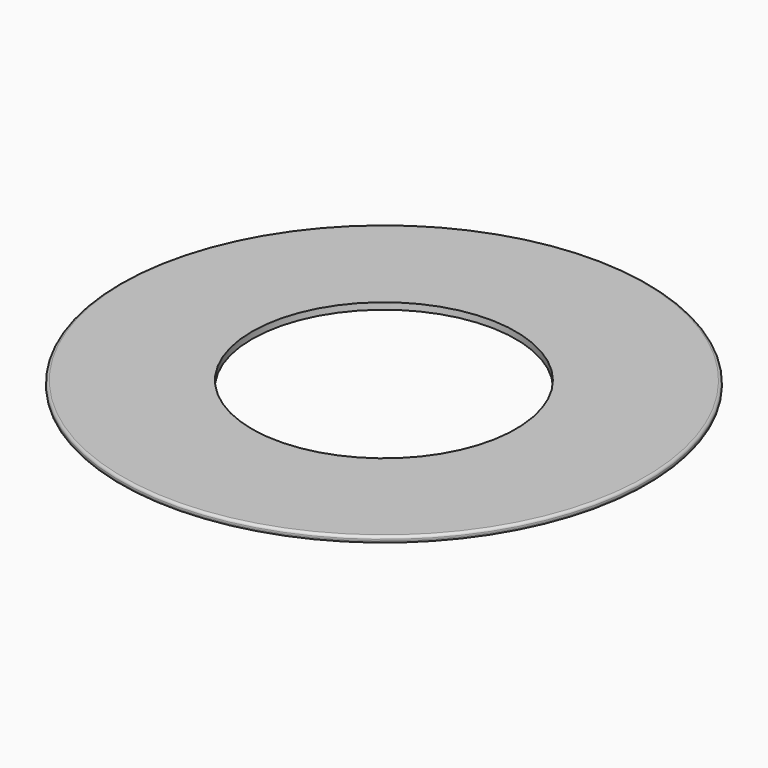
from build123d import *

# Parameters (mm, degrees)
F0_W = 63.5
F0_H = 3.175
F2_R = 1.27


with BuildPart() as f1:
    # F0 (on Front) → F1 (revolve)
    with BuildSketch(Plane.XZ):
        Rectangle(F0_W, F0_H)
    revolve(axis=Axis((95.25, 0, -6.2104322196), (0, 0, -1)))

    # F2
    f2_edges = [f1.edges().sort_by_distance(p)[0] for p in [
        (222.25, 0, -1.5875),
        (222.25, 0, 1.5875),
    ]]
    fillet(f2_edges, radius=F2_R)


solid = f1.part
